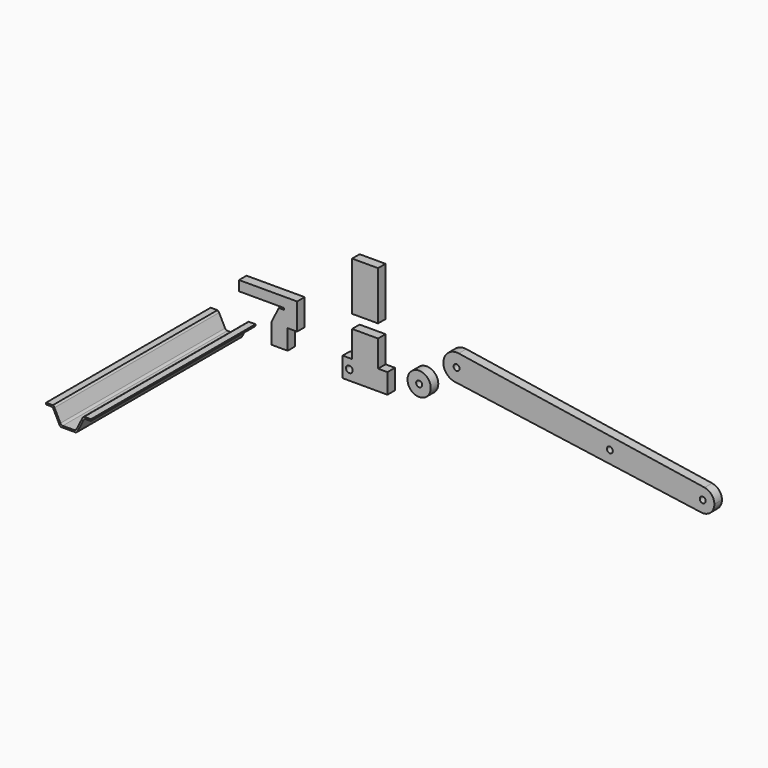
from build123d import *

# Parameters (mm, degrees)
F0_W          = 12.954
F0_H          = 85.725
F0_W_2        = 5.334
F0_H_2        = 9.525
F0_W_3        = 15.621
F0_W_4        = 28.575
F1_DEPTH      = 31.75
F3_DEPTH      = 85.726
F4_W          = 111.125
F4_H          = 18.034
F5_DEPTH      = 50.8
F5_DEPTH_BACK = 38.1
F7_DEPTH      = 18.034
F6_R          = 6.35
F8_DEPTH      = 18.034
F6_W          = 49.657
F6_H          = 93.091
F6_R_2        = 5.715
F6_R_3        = 22.225
F9_DEPTH      = 393.7


with BuildPart() as f1:
    # F0 (on Top) → F1 (new body)
    with BuildSketch(Plane.XY):
        with Locations((-234.823, 42.8625)):
            Rectangle(F0_W, F0_H)
        with Locations((-233.8705, 47.625)):
            Rectangle(F0_W_2, F0_H_2, mode=Mode.SUBTRACT)
        with Locations((-220.5355, 42.8625)):
            Rectangle(F0_W_3, F0_H)
        with Locations((-198.4375, 42.8625)):
            Rectangle(F0_W_4, F0_H)
        with Locations((-169.8625, 42.8625)):
            Rectangle(F0_W_4, F0_H)
        with Locations((-163.0045, 47.625)):
            Rectangle(F0_W_2, F0_H_2, mode=Mode.SUBTRACT)
    extrude(amount=F1_DEPTH)

    # F2 (on face) → F3 (intersect, through all)
    with BuildSketch(Plane.XZ):
        Polygon((-241.3, 31.75), (-241.3, 28.575), (-231.521, 28.575), (-228.346, 28.575), (-228.346, 31.75), align=None)
        with BuildLine():
            Line((-228.346, 31.75), (-228.346, 28.575))
            Line((-228.346, 28.575), (-225.171, 28.575))
            ThreePointArc((-225.171, 28.575), (-226.5041592272, 30.4168407728), (-228.346, 31.75))
        make_face()
        with BuildLine():
            Line((-227.2272822536, 25.603620589), (-215.9, 3.175))
            Line((-215.9, 3.175), (-212.725, 3.175))
            Line((-212.725, 3.175), (-209.55, 3.175))
            ThreePointArc((-209.55, 3.175), (-212.0744542312, 4.1150549462), (-213.8437177464, 6.146379411))
            Line((-213.8437177464, 6.146379411), (-225.171, 28.575))
            Line((-225.171, 28.575), (-228.346, 28.575))
            Line((-228.346, 28.575), (-231.521, 28.575))
            ThreePointArc((-231.521, 28.575), (-228.9965457688, 27.6349450538), (-227.2272822536, 25.603620589))
        make_face()
        Polygon((-209.55, 3.175), (-212.725, 3.175), (-212.725, 0), (-184.15, 0), (-184.15, 3.175), (-187.325, 3.175), align=None)
        with BuildLine():
            Line((-212.725, 3.175), (-215.9, 3.175))
            ThreePointArc((-215.9, 3.175), (-214.5668407728, 1.3331592272), (-212.725, 0))
            Line((-212.725, 0), (-212.725, 3.175))
        make_face()
        with BuildLine():
            Line((-184.15, 3.175), (-184.15, 0))
            ThreePointArc((-184.15, 0), (-182.3081592272, 1.3331592272), (-180.975, 3.175))
            Line((-180.975, 3.175), (-184.15, 3.175))
        make_face()
        with BuildLine():
            ThreePointArc((-183.0312822536, 6.146379411), (-184.8005457688, 4.1150549462), (-187.325, 3.175))
            Line((-187.325, 3.175), (-184.15, 3.175))
            Line((-184.15, 3.175), (-180.975, 3.175))
            Line((-180.975, 3.175), (-169.6477177464, 25.603620589))
            ThreePointArc((-169.6477177464, 25.603620589), (-167.8784542312, 27.6349450538), (-165.354, 28.575))
            Line((-165.354, 28.575), (-168.529, 28.575))
            Line((-168.529, 28.575), (-171.704, 28.575))
            Line((-171.704, 28.575), (-183.0312822536, 6.146379411))
        make_face()
        with BuildLine():
            Line((-168.529, 28.575), (-168.529, 31.75))
            ThreePointArc((-168.529, 31.75), (-170.3708407728, 30.4168407728), (-171.704, 28.575))
            Line((-171.704, 28.575), (-168.529, 28.575))
        make_face()
        Polygon((-155.575, 31.75), (-168.529, 31.75), (-168.529, 28.575), (-165.354, 28.575), (-155.575, 28.575), align=None)
    extrude(amount=-F3_DEPTH, mode=Mode.INTERSECT)

    # F4 (on Top) → F5 (join, two sides)
    with BuildSketch(Plane.XY) as f5_sk:
        with Locations((-185.7375, 76.708)):
            Rectangle(F4_W, F4_H)
    extrude(amount=F5_DEPTH)
    extrude(f5_sk.sketch, amount=-F5_DEPTH_BACK)

    # F6 (on face) → F7 (intersect)
    with BuildSketch(Plane.XZ.offset(-67.691)):
        Polygon((-241.3, 50.8), (-241.3, 31.75), (-228.346, 31.75), (-168.529, 31.75), (-155.575, 31.75), (-155.575, 28.575), (-155.575, 28.448), (-165.1, 28.448), (-179.4672913041, 0), (-179.4672913041, -38.1), (-148.209, -38.1), (-148.209, 0), (-130.175, 0), (-130.175, 50.8), align=None)
    extrude(amount=-F7_DEPTH, mode=Mode.INTERSECT)


with BuildPart() as f8:
    # F6 (on face) → F8 (new body)
    with BuildSketch(Plane.XZ.offset(-67.691)):
        Polygon((39.116, 50.8), (-10.541, 50.8), (-10.541, 0), (-28.575, 0), (-28.575, -38.1), (57.15, -38.1), (57.15, 0), (39.116, 0), align=None)
        with Locations((-15.875, -19.05)):
            Circle(F6_R, mode=Mode.SUBTRACT)
    extrude(amount=F8_DEPTH)


with BuildPart() as f8b:
    # F6 (on face) → F8, piece 2 (new body)
    with BuildSketch(Plane.XZ.offset(-67.691)):
        with Locations((14.2875, 122.7455)):
            Rectangle(F6_W, F6_H)
    extrude(amount=F8_DEPTH)


with BuildPart() as f8c:
    # F6 (on face) → F8, piece 3 (new body)
    with BuildSketch(Plane.XZ.offset(-67.691)):
        with BuildLine():
            ThreePointArc((214.9172682286, 50.8), (208.8056128627, 67.3263353856), (193.4117752147, 75.8996576737))
            ThreePointArc((193.4117752147, 75.8996576737), (164.3921937427, 54.5270138283), (185.9579133544, 25.6506263919))
            ThreePointArc((185.9579133544, 25.6506263919), (206.1718829974, 31.6223096567), (214.9172682286, 50.8))
        make_face()
        with Locations((189.5172682286, 50.8)):
            Circle(F6_R_2, mode=Mode.SUBTRACT)
        with BuildLine():
            ThreePointArc((657.285564485, -41.0557019071), (638.4155598248, -15.7888629002), (663.8076936128, 2.9122004645))
            Line((663.8076936128, 2.9122004645), (193.4117752147, 75.8996576737))
            ThreePointArc((193.4117752147, 75.8996576737), (208.8056128627, 67.3263353856), (214.9172682286, 50.8))
            ThreePointArc((214.9172682286, 50.8), (206.1718829974, 31.6223096567), (185.9579133544, 25.6506263919))
            Line((185.9579133544, 25.6506263919), (657.285564485, -41.0557019071))
        make_face()
        with Locations((482.6, 7.3245709113)):
            Circle(F6_R_2, mode=Mode.SUBTRACT)
        with BuildLine():
            ThreePointArc((657.285564485, -41.0557019071), (674.9727879227, -35.8304790504), (682.625, -19.05))
            ThreePointArc((682.625, -19.05), (677.2773015548, -4.5894565376), (663.8076936128, 2.9122004645))
            ThreePointArc((663.8076936128, 2.9122004645), (638.4155598248, -15.7888629002), (657.285564485, -41.0557019071))
        make_face()
        with Locations((660.4, -19.05)):
            Circle(F6_R_2, mode=Mode.SUBTRACT)
    extrude(amount=F8_DEPTH)


with BuildPart() as f8d:
    # F6 (on face) → F8, piece 4 (new body)
    with BuildSketch(Plane.XZ.offset(-67.691)):
        with Locations((117.7393719554, 0)):
            Circle(F6_R_3)
        with Locations((117.7393719554, 0)):
            Circle(F6_R_2, mode=Mode.SUBTRACT)
    extrude(amount=F8_DEPTH)


with BuildPart() as f9:
    # F2 (on face) → F9 (new body)
    with BuildSketch(Plane.XZ):
        Polygon((-155.575, 31.75), (-168.529, 31.75), (-168.529, 28.575), (-165.354, 28.575), (-155.575, 28.575), align=None)
        with BuildLine():
            Line((-168.529, 28.575), (-168.529, 31.75))
            ThreePointArc((-168.529, 31.75), (-170.3708407728, 30.4168407728), (-171.704, 28.575))
            Line((-171.704, 28.575), (-168.529, 28.575))
        make_face()
        with BuildLine():
            ThreePointArc((-183.0312822536, 6.146379411), (-184.8005457688, 4.1150549462), (-187.325, 3.175))
            Line((-187.325, 3.175), (-184.15, 3.175))
            Line((-184.15, 3.175), (-180.975, 3.175))
            Line((-180.975, 3.175), (-169.6477177464, 25.603620589))
            ThreePointArc((-169.6477177464, 25.603620589), (-167.8784542312, 27.6349450538), (-165.354, 28.575))
            Line((-165.354, 28.575), (-168.529, 28.575))
            Line((-168.529, 28.575), (-171.704, 28.575))
            Line((-171.704, 28.575), (-183.0312822536, 6.146379411))
        make_face()
        Polygon((-241.3, 31.75), (-241.3, 28.575), (-231.521, 28.575), (-228.346, 28.575), (-228.346, 31.75), align=None)
        with BuildLine():
            Line((-228.346, 31.75), (-228.346, 28.575))
            Line((-228.346, 28.575), (-225.171, 28.575))
            ThreePointArc((-225.171, 28.575), (-226.5041592272, 30.4168407728), (-228.346, 31.75))
        make_face()
        Polygon((-209.55, 3.175), (-212.725, 3.175), (-212.725, 0), (-184.15, 0), (-184.15, 3.175), (-187.325, 3.175), align=None)
        with BuildLine():
            Line((-184.15, 3.175), (-184.15, 0))
            ThreePointArc((-184.15, 0), (-182.3081592272, 1.3331592272), (-180.975, 3.175))
            Line((-180.975, 3.175), (-184.15, 3.175))
        make_face()
        with BuildLine():
            Line((-212.725, 3.175), (-215.9, 3.175))
            ThreePointArc((-215.9, 3.175), (-214.5668407728, 1.3331592272), (-212.725, 0))
            Line((-212.725, 0), (-212.725, 3.175))
        make_face()
        with BuildLine():
            Line((-227.2272822536, 25.603620589), (-215.9, 3.175))
            Line((-215.9, 3.175), (-212.725, 3.175))
            Line((-212.725, 3.175), (-209.55, 3.175))
            ThreePointArc((-209.55, 3.175), (-212.0744542312, 4.1150549462), (-213.8437177464, 6.146379411))
            Line((-213.8437177464, 6.146379411), (-225.171, 28.575))
            Line((-225.171, 28.575), (-228.346, 28.575))
            Line((-228.346, 28.575), (-231.521, 28.575))
            ThreePointArc((-231.521, 28.575), (-228.9965457688, 27.6349450538), (-227.2272822536, 25.603620589))
        make_face()
    extrude(amount=F9_DEPTH)


solid = Compound([f1.part, f8.part, f8b.part, f8c.part, f8d.part, f9.part])
